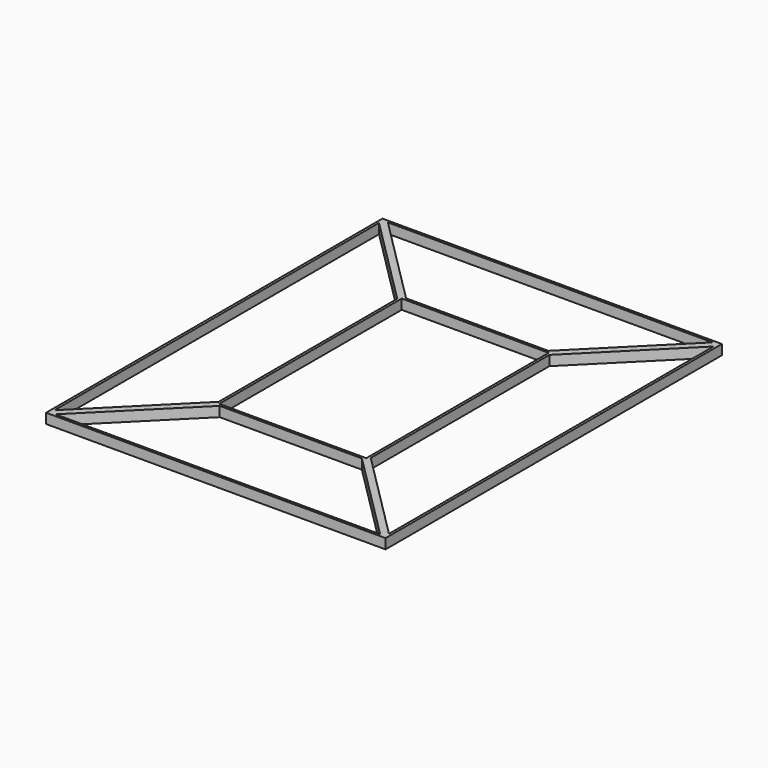
from build123d import *

# Parameters (mm, degrees)
F0_W     = 68.180988
F0_H     = 84.445938
F0_W_2   = 29.534492
F0_H_2   = 45.799442
F1_DEPTH = 2


with BuildPart() as f1:
    # F0 (on Top) → F1 (new body)
    with BuildSketch(Plane.XY):
        Rectangle(F0_W, F0_H)
        Polygon((-33.590494, 40.736501), (-33.590494, 41.722969), (-32.604026, 41.722969), (32.604026, 41.722969), (33.590494, 41.722969), (33.590494, 40.736501), (33.590494, -40.736501), (33.590494, -41.722969), (32.604026, -41.722969), (-32.604026, -41.722969), (-33.590494, -41.722969), (-33.590494, -40.736501), align=None, mode=Mode.SUBTRACT)
        Polygon((-15.267246, -22.413252), (-33.590494, -40.736501), (-33.590494, -41.722969), (-32.604026, -41.722969), (-14.280777, -23.399721), (-15.267246, -23.399721), align=None)
        Polygon((-32.604026, 41.722969), (-33.590494, 41.722969), (-33.590494, 40.736501), (-15.267246, 22.413252), (-15.267246, 23.399721), (-14.280777, 23.399721), align=None)
        Polygon((33.590494, 41.722969), (32.604026, 41.722969), (14.280777, 23.399721), (15.267246, 23.399721), (15.267246, 22.413252), (33.590494, 40.736501), align=None)
        Polygon((14.280777, -23.399721), (32.604026, -41.722969), (33.590494, -41.722969), (33.590494, -40.736501), (15.267246, -22.413252), (15.267246, -23.399721), align=None)
        Polygon((-15.267246, 23.399721), (-15.267246, 22.413252), (-15.267246, -22.413252), (-15.267246, -23.399721), (-14.280777, -23.399721), (14.280777, -23.399721), (15.267246, -23.399721), (15.267246, -22.413252), (15.267246, 22.413252), (15.267246, 23.399721), (14.280777, 23.399721), (-14.280777, 23.399721), align=None)
        Rectangle(F0_W_2, F0_H_2, mode=Mode.SUBTRACT)
    extrude(amount=F1_DEPTH)


solid = f1.part
